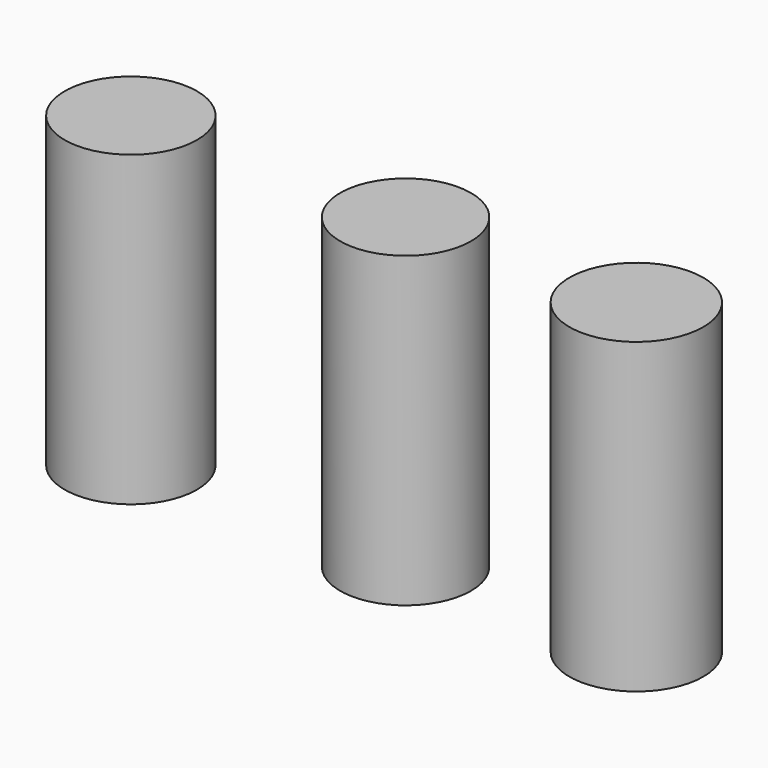
from build123d import *

# Parameters (mm, degrees)
F0_R     = 4.3
F0_R_2   = 4.25
F0_R_3   = 4.35
F1_DEPTH = 20


with BuildPart() as f1:
    # F0 (on Top) → F1 (new body)
    with BuildSketch(Plane.XY):
        Circle(F0_R)
        with Locations((17.851271, 0)):
            Circle(F0_R_2)
        with Locations((32.844555, 0)):
            Circle(F0_R_3)
        Circle(F0_R)
    extrude(amount=F1_DEPTH)


solid = f1.part
